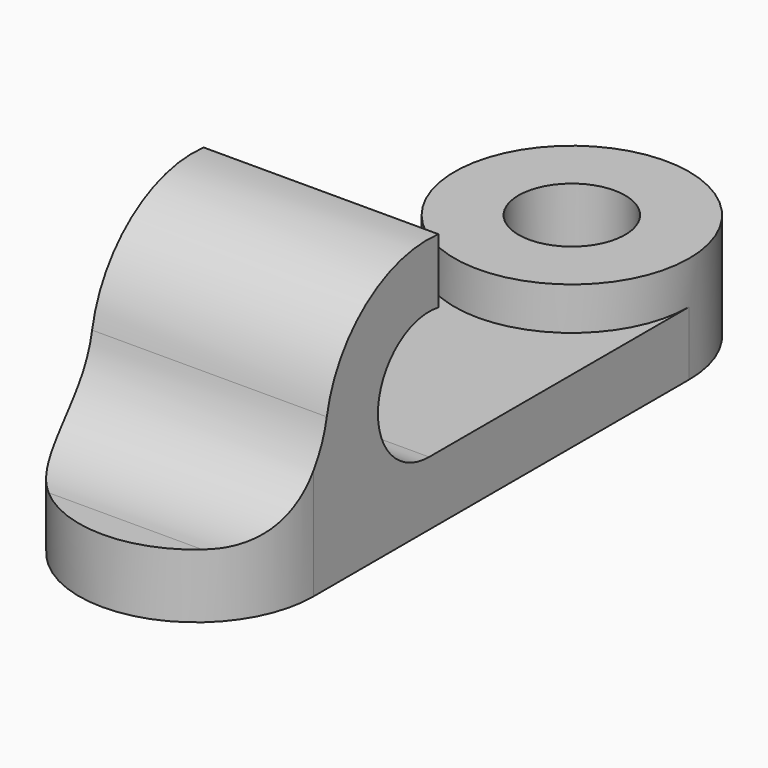
from build123d import *

# Parameters (mm, degrees)
F1_DEPTH = 3
F2_DEPTH = 5
F4_DEPTH = 11
F5_R     = 5


with BuildPart() as f1:
    # F0 (on Top) → F1 (new body)
    with BuildSketch(Plane.XY):
        with BuildLine():
            Line((-5.5, 11), (-5.5, -11))
            ThreePointArc((-5.5, -11), (0, -5.5), (5.5, -11))
            Line((5.5, -11), (5.5, 11))
            ThreePointArc((5.5, 11), (0, 5.5), (-5.5, 11))
        make_face()
        with BuildLine():
            ThreePointArc((5.5, -11), (0, -5.5), (-5.5, -11))
            Line((-5.5, -11), (5.5, -11))
        make_face()
        with BuildLine():
            Line((5.5, -11), (-5.5, -11))
            ThreePointArc((-5.5, -11), (0, -16.5), (5.5, -11))
        make_face()
    extrude(amount=F1_DEPTH)

    # F0 (on Top) → F2 (join)
    with BuildSketch(Plane.XY):
        with BuildLine():
            Line((-2.5, 11), (-5.5, 11))
            ThreePointArc((-5.5, 11), (0, 5.5), (5.5, 11))
            Line((5.5, 11), (2.5, 11))
            ThreePointArc((2.5, 11), (0, 8.5), (-2.5, 11))
        make_face()
        with BuildLine():
            ThreePointArc((5.5, 11), (0, 16.5), (-5.5, 11))
            Line((-5.5, 11), (-2.5, 11))
            ThreePointArc((-2.5, 11), (0, 13.5), (2.5, 11))
            Line((2.5, 11), (5.5, 11))
        make_face()
    extrude(amount=F2_DEPTH)

    # F3 (on face) → F4 (join)
    with BuildSketch(Plane(origin=(-5.5, 0, 0), x_dir=(0, -1, 0), z_dir=(-1, 0, 0))):
        with BuildLine():
            ThreePointArc((3.6959245331, 8.9510570469), (6.1566711465, 8.3042419241), (7.2356117629, 6))
            ThreePointArc((7.2356117629, 6), (6.3569321064, 3.8786796564), (4.2356117629, 3))
            Line((4.2356117629, 3), (9.5210892795, 3))
            ThreePointArc((9.5210892795, 3), (9.3640881698, 9.2761960602), (3.6959245331, 11.975678848))
            Line((3.6959245331, 11.975678848), (3.6959245331, 8.9510570469))
        make_face()
    extrude(amount=-F4_DEPTH)

    # F5
    f5_edges = [f1.edges().sort_by_distance(p)[0] for p in [
        (0, -9.521089, 3),
    ]]
    fillet(f5_edges, radius=F5_R)


solid = f1.part
